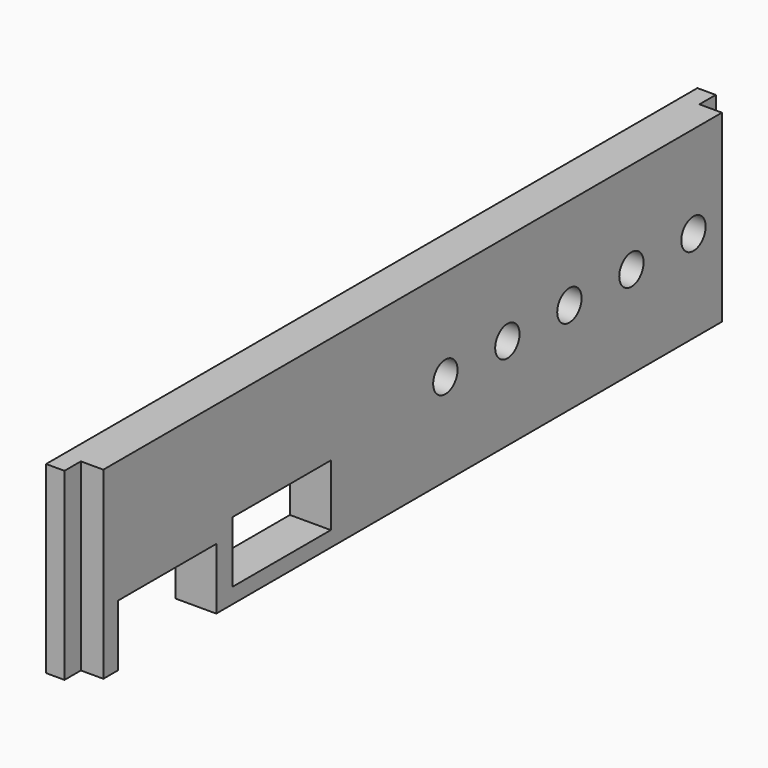
from build123d import *

# Parameters (mm, degrees)
BOX052_W          = 10
BOX052_H          = 12
BOX052_DEPTH      = 6
BOX053_W          = 10
BOX053_H          = 12
BOX053_DEPTH      = 6
CYLINDER011_R     = 1.49
CYLINDER011_DEPTH = 10
ARRAY017_Y_COUNT  = 5
ARRAY017_Y_PITCH  = 7.58
BOX051_W          = 10
BOX051_H          = 10
BOX051_DEPTH      = 31
BOX050_W          = 10
BOX050_H          = 10
BOX050_DEPTH      = 30
BOX049_W          = 10
BOX049_H          = 10
BOX049_DEPTH      = 25
BOX048_W          = 10
BOX048_H          = 10
BOX048_DEPTH      = 25
BOX046_W          = 2
BOX046_H          = 80
BOX046_DEPTH      = 18
BOX047_W          = 4
BOX047_H          = 76
BOX047_DEPTH      = 18


with BuildPart() as usb:
    # Box052 → Box052 (new body)
    with BuildSketch(Plane(origin=(110, 5, 4), x_dir=(1, 0, 0), z_dir=(0, 0, 1))):
        with Locations((5, 6)):
            Rectangle(BOX052_W, BOX052_H)
    extrude(amount=BOX052_DEPTH)


with BuildPart() as obj1:
    # Box053 → Box053 (new body)
    with BuildSketch(Plane(origin=(110, 19, 5.5), x_dir=(1, 0, 0), z_dir=(0, 0, 1))):
        with Locations((5, 6)):
            Rectangle(BOX053_W, BOX053_H)
    extrude(amount=BOX053_DEPTH)


with BuildPart() as fusion008032:
    # Cylinder011 → Cylinder011 (new body)
    with BuildSketch(Plane(origin=(143, 6, 13), x_dir=(0, 0, -1), z_dir=(1, 0, 0))):
        Circle(CYLINDER011_R)
    extrude(amount=CYLINDER011_DEPTH)

    # Array017 Y: Fusion008032 ×5


with BuildPart() as fusion008032_1:
    add(fusion008032.part)
    with Locations(*[(0, i * ARRAY017_Y_PITCH, 0) for i in range(1, ARRAY017_Y_COUNT)]):
        add(fusion008032.part)


with BuildPart() as fusion008032_2:
    # Array017 placement: moved
    add(fusion008032_1.part.moved(Location((-33, 39, 0))))

    # Fusion008032: union USB, obj1
    add(usb.part)
    add(obj1.part)


with BuildPart() as obj2:
    # Box051 → Box051 (new body)
    with BuildSketch(Plane(origin=(110, 80.8, 0), x_dir=(1, 0, 0), z_dir=(0, 0, 1))):
        with Locations((5, 5)):
            Rectangle(BOX051_W, BOX051_H)
    extrude(amount=BOX051_DEPTH)


with BuildPart() as obj3:
    # Box050 → Box050 (new body)
    with BuildSketch(Plane(origin=(109, -8.8, 0), x_dir=(1, 0, 0), z_dir=(0, 0, 1))):
        with Locations((5, 5)):
            Rectangle(BOX050_W, BOX050_H)
    extrude(amount=BOX050_DEPTH)


with BuildPart() as obj4:
    # Box049 → Box049 (new body)
    with BuildSketch(Plane(origin=(114.8, 78.8, 0), x_dir=(1, 0, 0), z_dir=(0, 0, 1))):
        with Locations((5, 5)):
            Rectangle(BOX049_W, BOX049_H)
    extrude(amount=BOX049_DEPTH)


with BuildPart() as obj5:
    # Box048 → Box048 (new body)
    with BuildSketch(Plane(origin=(114.8, -6.8, 0), x_dir=(1, 0, 0), z_dir=(0, 0, 1))):
        with Locations((5, 5)):
            Rectangle(BOX048_W, BOX048_H)
    extrude(amount=BOX048_DEPTH)


with BuildPart() as obj6:
    # Box046 → Box046 (new body)
    with BuildSketch(Plane(origin=(113, 1, 23), x_dir=(1, 0, 0), z_dir=(0, 0, 1))):
        with Locations((1, 40)):
            Rectangle(BOX046_W, BOX046_H)
    extrude(amount=BOX046_DEPTH)


with BuildPart() as front_cpu:
    # Box047 → Box047 (new body)
    with BuildSketch(Plane(origin=(113, 3, 23), x_dir=(1, 0, 0), z_dir=(0, 0, 1))):
        with Locations((2, 38)):
            Rectangle(BOX047_W, BOX047_H)
    extrude(amount=BOX047_DEPTH)

    # Fusion008031: union obj6
    add(obj6.part)


with BuildPart() as front_cpu_1:
    # Fusion008031 placement: moved
    add(front_cpu.part.moved(Location((0, 0, -19))))

    # Cut047: cut obj5
    add(obj5.part, mode=Mode.SUBTRACT)

    # Cut048: cut obj4
    add(obj4.part, mode=Mode.SUBTRACT)

    # Cut049: cut obj3
    add(obj3.part, mode=Mode.SUBTRACT)

    # Cut050: cut obj2
    add(obj2.part, mode=Mode.SUBTRACT)

    # Cut053: cut Fusion008032
    add(fusion008032_2.part, mode=Mode.SUBTRACT)


solid = front_cpu_1.part
